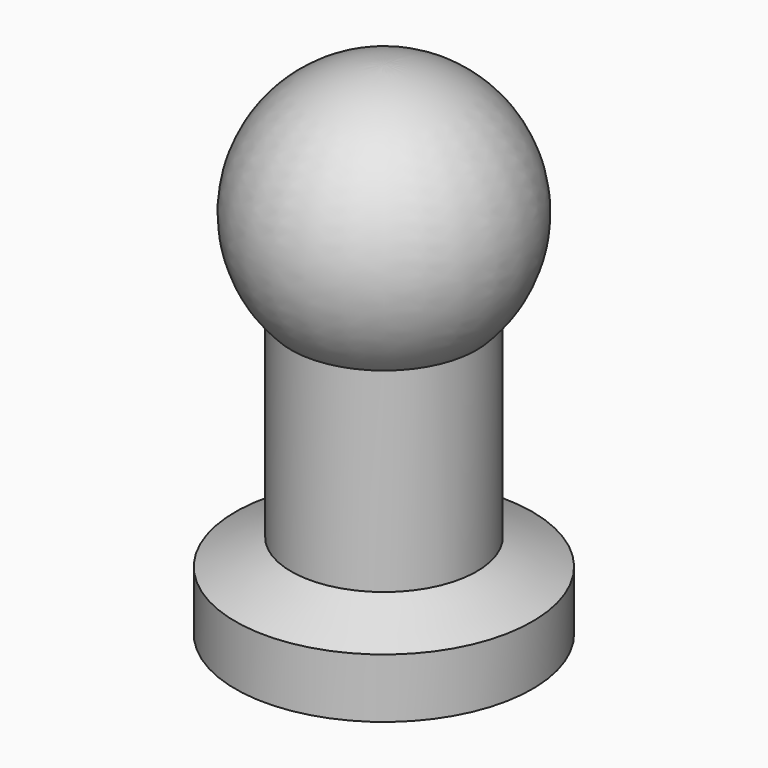
from build123d import *


with BuildPart() as part:
    # Sketch → Revolution (revolve)
    with BuildSketch(Plane.YZ):
        with BuildLine():
            Line((0, 0), (20, 0))
            Line((20, 0), (20, 8))
            Line((20, 8), (12.5, 11.497307))
            Line((12.5, 11.497307), (12.5, 37.752551))
            ThreePointArc((12.5, 37.752551), (16.133511, 56.779368), (0, 67.5))
            Line((0, 67.5), (0, 0))
        make_face()
    revolve(axis=Axis((0, 0, 0), (0, 0, 1)))


solid = part.part
